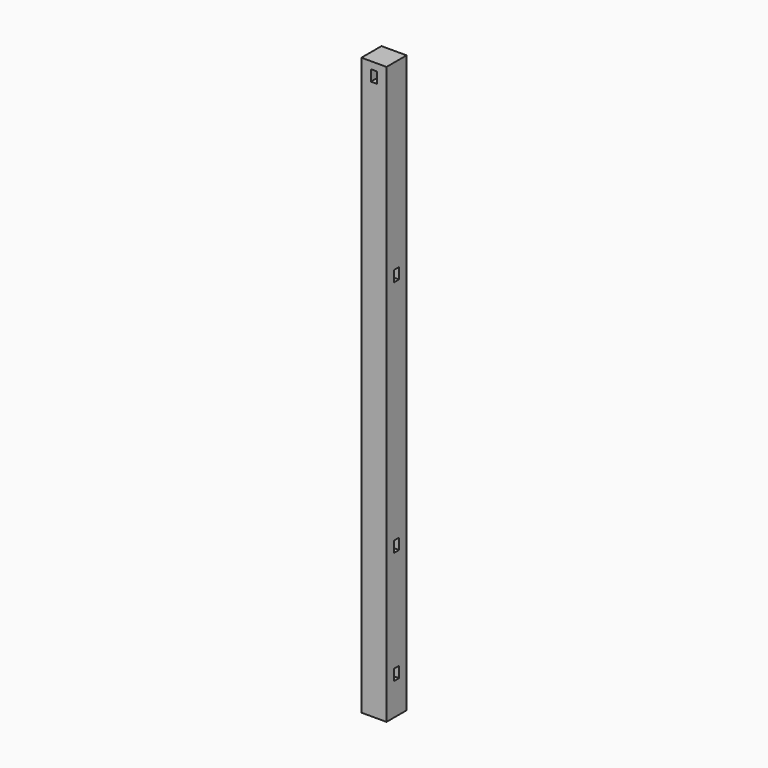
from build123d import *

# Parameters (mm, degrees)
F0_W     = 101.6
F0_H     = 101.6
F1_DEPTH = 1168.4
F2_W     = 25.4
F2_H     = 44.45
F3_DEPTH = 101.601
F4_W     = 25.4
F4_H     = 44.45
F5_DEPTH = 101.601
F6_W     = 25.4
F6_H     = 44.45
F7_DEPTH = 101.601
F8_W     = 25.4
F8_H     = 44.45
F9_DEPTH = 101.601


with BuildPart() as f1:
    # F0 (on Top) → F1 (new body, symmetric)
    with BuildSketch(Plane.XY):
        Rectangle(F0_W, F0_H)
    extrude(amount=F1_DEPTH, both=True)

    # F2 (on face) → F3 (cut, through all)
    with BuildSketch(Plane.XZ.offset(50.8)):
        with Locations((0, 1117.6)):
            Rectangle(F2_W, F2_H)
    extrude(amount=-F3_DEPTH, mode=Mode.SUBTRACT)

    # F4 (on face) → F5 (cut, through all)
    with BuildSketch(Plane.YZ.offset(50.8)):
        with Locations((0, 406.4)):
            Rectangle(F4_W, F4_H)
    extrude(amount=-F5_DEPTH, mode=Mode.SUBTRACT)

    # F6 (on face) → F7 (cut, through all)
    with BuildSketch(Plane.YZ.offset(50.8)):
        with Locations((0, -558.8)):
            Rectangle(F6_W, F6_H)
    extrude(amount=-F7_DEPTH, mode=Mode.SUBTRACT)

    # F8 (on face) → F9 (cut, through all)
    with BuildSketch(Plane.YZ.offset(50.8)):
        with Locations((0, -1016)):
            Rectangle(F8_W, F8_H)
    extrude(amount=-F9_DEPTH, mode=Mode.SUBTRACT)


solid = f1.part
